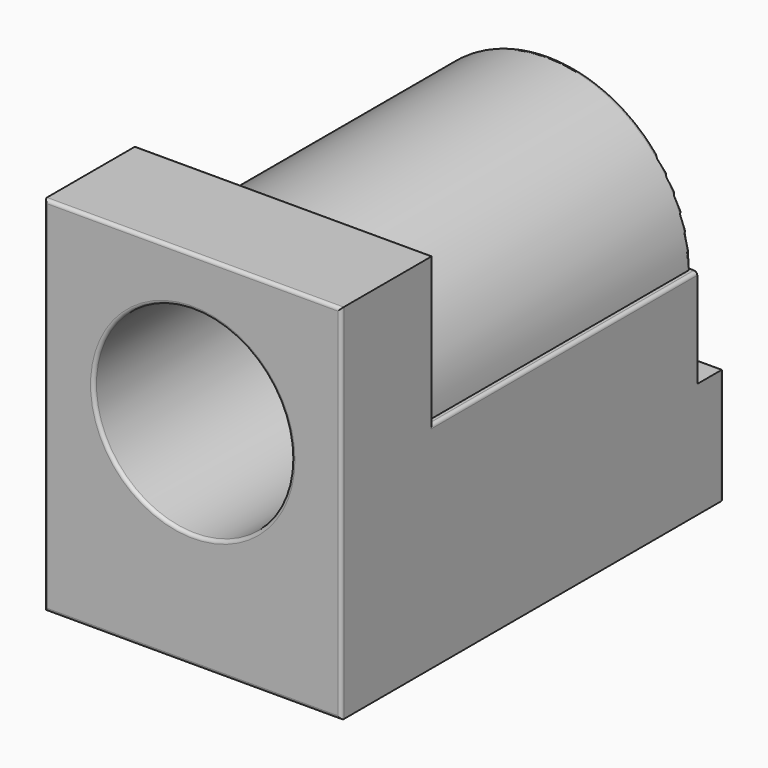
from build123d import *

# Parameters (mm, degrees)
SKETCH_W     = 9
SKETCH_H     = 11
PAD_DEPTH    = 3.5
PAD001_DEPTH = 10
SKETCH003_W  = 3
SKETCH003_H  = 3.5
PAD002_DEPTH = 1
SKETCH004_R  = 3
POCKET_DEPTH = 10
FILLET_R     = 0.1
FILLET002_R  = 0.1
FILLET003_R  = 0.1
FILLET004_R  = 0.1
FILLET006_R  = 0.1


with BuildPart() as part:
    # Sketch → Pad (new body)
    with BuildSketch(Plane.XZ):
        with Locations((0, -1)):
            Rectangle(SKETCH_W, SKETCH_H)
    extrude(amount=-PAD_DEPTH)

    # Sketch001 (on Face6 of Pad) → Pad001 (join)
    with BuildSketch(Plane(origin=(0, 3.5, 0), x_dir=(1, 0, 0), z_dir=(0, 1, 0))):
        with BuildLine():
            ThreePointArc((-4.3, 0), (0, -4.3), (4.3, 0))
            Line((4.3, 0), (4.5, 0))
            Line((4.5, 6.5), (4.5, 0))
            Line((-4.5, 6.5), (4.5, 6.5))
            Line((-4.5, 0), (-4.5, 6.5))
            Line((-4.5, 0), (-4.3, 0))
        make_face()
    extrude(amount=PAD001_DEPTH)

    # Sketch003 → Pad002 (join)
    with BuildSketch(Plane(origin=(0, 13.5, 0), x_dir=(1, 0, 0), z_dir=(0, 1, 0))):
        with Locations((-3, 4.75)):
            Rectangle(SKETCH003_W, SKETCH003_H)
        with Locations((3, 4.75)):
            Rectangle(SKETCH003_W, SKETCH003_H)
    extrude(amount=PAD002_DEPTH)

    # Sketch004 (on Face4 of Pad002) → Pocket (cut)
    with BuildSketch(Plane.XZ):
        Circle(SKETCH004_R)
    extrude(amount=-POCKET_DEPTH, mode=Mode.SUBTRACT)

    # Fillet
    fillet_edges = [part.edges().sort_by_distance(p)[0] for p in [
        (0, 0, 4.5),
        (4.5, 0, -1),
        (0, 0, -6.5),
        (-4.5, 0, -1),
        (0, 3.5, 4.5),
        (4.5, 3.5, 2.25),
        (-4.5, 3.5, 2.25),
    ]]
    fillet(fillet_edges, radius=FILLET_R)

    # Fillet002
    fillet002_edges = [part.edges().sort_by_distance(p)[0] for p in [
        (0, 13.5, 4.3),
    ]]
    fillet(fillet002_edges, radius=FILLET002_R)

    # Fillet003
    fillet003_edges = [part.edges().sort_by_distance(p)[0] for p in [
        (3, 14.5, -3),
        (4.5, 14.5, -4.75),
        (3, 14.5, -6.5),
        (1.5, 14.5, -4.75),
        (-1.5, 14.5, -4.75),
        (-3, 14.5, -3),
        (-4.5, 14.5, -4.75),
        (-3, 14.5, -6.5),
    ]]
    fillet(fillet003_edges, radius=FILLET003_R)

    # Fillet004
    fillet004_edges = [part.edges().sort_by_distance(p)[0] for p in [
        (-4.5, 8.5, 0),
        (4.5, 8.5, 0),
    ]]
    fillet(fillet004_edges, radius=FILLET004_R)

    # Fillet006
    fillet006_edges = [part.edges().sort_by_distance(p)[0] for p in [
        (-3, 0, 0),
    ]]
    fillet(fillet006_edges, radius=FILLET006_R)


solid = part.part
